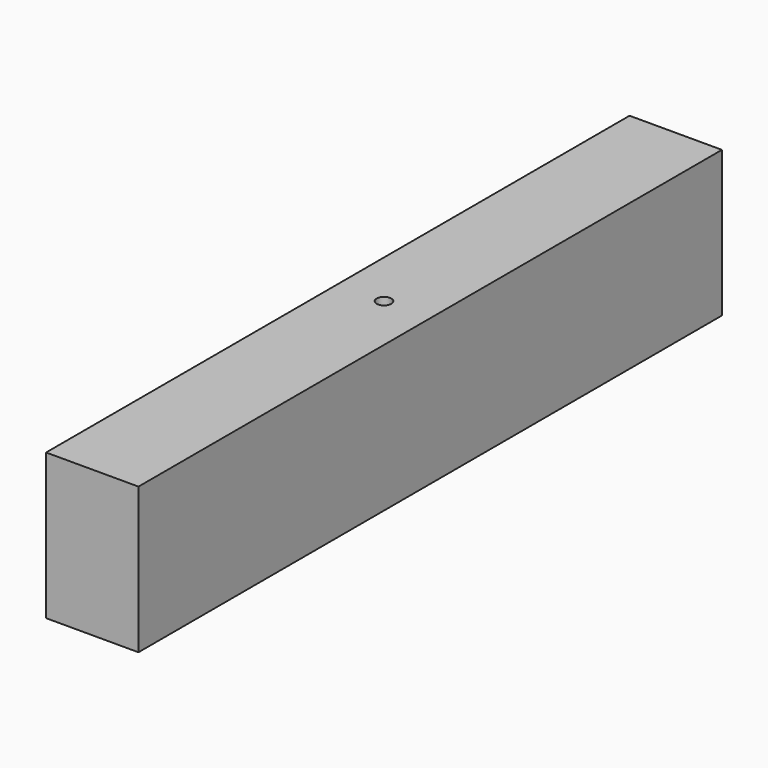
from build123d import *

# Parameters (mm, degrees)
F1_W           = 19
F1_H           = 30
F2_DEPTH       = 75
F4_R           = 7.5
F5_DEPTH       = 5
F6_D           = 3
F6_CSINK_D     = 15
F6_CSINK_ANGLE = 90


with BuildPart() as f2:
    # F1 (on Front) → F2 (new body, symmetric)
    with BuildSketch(Plane.XZ):
        with Locations((9.5, 0)):
            Rectangle(F1_W, F1_H)
    extrude(amount=F2_DEPTH, both=True)

    # F4 (on offset) → F5 (cut, through all)
    with BuildSketch(Plane(origin=(0, 0, -10), x_dir=(1, 0, 0), z_dir=(0, 0, -1))):
        with Locations((9.5, 0)):
            Circle(F4_R)
    extrude(amount=F5_DEPTH, mode=Mode.SUBTRACT)

    # F6 (through all)
    with Locations(Plane(origin=(0, 0, -10), x_dir=(1, 0, 0), z_dir=(0, 0, -1))):
        with Locations((9.5, 0)):
            CounterSinkHole(F6_D / 2, F6_CSINK_D / 2, counter_sink_angle=F6_CSINK_ANGLE)


solid = f2.part
